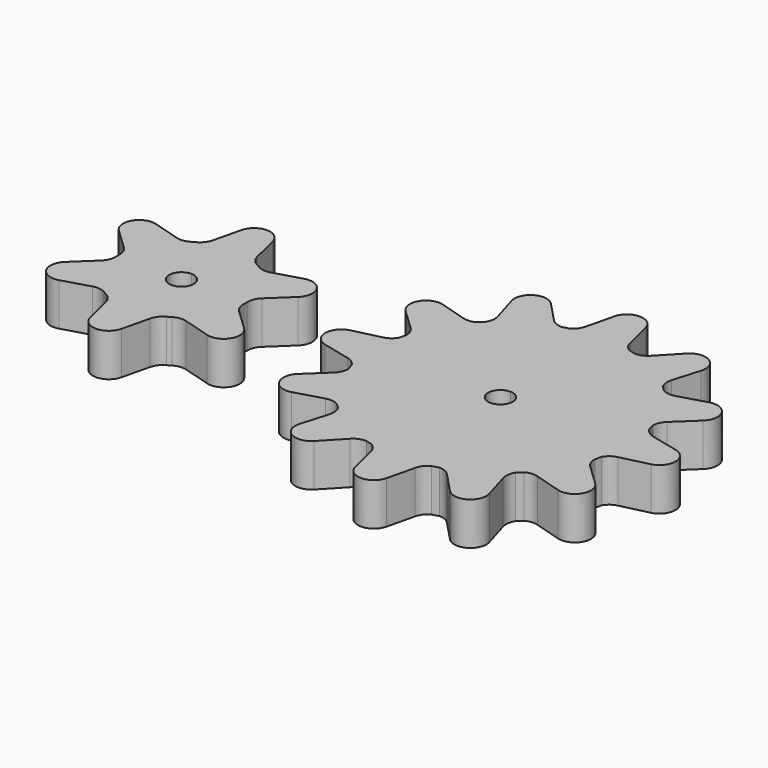
from build123d import *

# Parameters (mm, degrees)
F1_DEPTH = 4
F3_DEPTH = 4


with BuildPart() as f1:
    # F0 (on Top) → F1 (new body)
    with BuildSketch(Plane.XY):
        with BuildLine():
            ThreePointArc((-2.079262, 6.263165), (-2.350601, 5.696396), (-2.830292, 5.290505))
            ThreePointArc((-2.830292, 5.290505), (-3, 5.196152), (-3.166566, 5.096358))
            ThreePointArc((-3.166566, 5.096358), (-3.757923, 4.883878), (-4.384429, 4.932276))
            Line((-4.384429, 4.932276), (-6.934995, 5.688171))
            ThreePointArc((-6.934995, 5.688171), (-8.660254, 5), (-8.393598, 3.161796))
            Line((-8.393598, 3.161796), (-6.463691, 1.330888))
            ThreePointArc((-6.463691, 1.330888), (-6.108524, 0.812518), (-5.996858, 0.194148))
            ThreePointArc((-5.996858, 0.194148), (-6, 0), (-5.996858, -0.194148))
            ThreePointArc((-5.996858, -0.194148), (-6.108524, -0.812518), (-6.463691, -1.330888))
            Line((-6.463691, -1.330888), (-8.393598, -3.161796))
            ThreePointArc((-8.393598, -3.161796), (-8.660254, -5), (-6.934995, -5.688171))
            Line((-6.934995, -5.688171), (-4.384429, -4.932276))
            ThreePointArc((-4.384429, -4.932276), (-3.757923, -4.883878), (-3.166566, -5.096358))
            ThreePointArc((-3.166566, -5.096358), (-3, -5.196152), (-2.830292, -5.290505))
            ThreePointArc((-2.830292, -5.290505), (-2.350601, -5.696396), (-2.079262, -6.263165))
            Line((-2.079262, -6.263165), (-1.458603, -8.849967))
            ThreePointArc((-1.458603, -8.849967), (0, -10), (1.458603, -8.849967))
            Line((1.458603, -8.849967), (2.079262, -6.263165))
            ThreePointArc((2.079262, -6.263165), (2.350601, -5.696396), (2.830292, -5.290505))
            ThreePointArc((2.830292, -5.290505), (3, -5.196152), (3.166566, -5.096358))
            ThreePointArc((3.166566, -5.096358), (3.757923, -4.883878), (4.384429, -4.932276))
            Line((4.384429, -4.932276), (6.934995, -5.688171))
            ThreePointArc((6.934995, -5.688171), (8.660254, -5), (8.393598, -3.161796))
            Line((8.393598, -3.161796), (6.463691, -1.330888))
            ThreePointArc((6.463691, -1.330888), (6.108524, -0.812518), (5.996858, -0.194148))
            ThreePointArc((5.996858, -0.194148), (6, 0), (5.996858, 0.194148))
            ThreePointArc((5.996858, 0.194148), (6.108524, 0.812518), (6.463691, 1.330888))
            Line((6.463691, 1.330888), (8.393598, 3.161796))
            ThreePointArc((8.393598, 3.161796), (8.660254, 5), (6.934995, 5.688171))
            Line((6.934995, 5.688171), (4.384429, 4.932276))
            ThreePointArc((4.384429, 4.932276), (3.757923, 4.883878), (3.166566, 5.096358))
            ThreePointArc((3.166566, 5.096358), (3, 5.196152), (2.830292, 5.290505))
            ThreePointArc((2.830292, 5.290505), (2.350601, 5.696396), (2.079262, 6.263165))
            Line((2.079262, 6.263165), (1.458603, 8.849967))
            ThreePointArc((1.458603, 8.849967), (0, 10), (-1.458603, 8.849967))
            Line((-1.458603, 8.849967), (-2.079262, 6.263165))
        make_face()
        with BuildLine():
            ThreePointArc((0, 1.15), (0.813173, 0.813173), (1.15, 0))
            ThreePointArc((1.15, 0), (-0.813173, -0.813173), (0, 1.15))
        make_face(mode=Mode.SUBTRACT)
    extrude(amount=F1_DEPTH)


with BuildPart() as f3:
    # F2 (on Top) → F3 (new body)
    with BuildSketch(Plane.XY):
        with BuildLine():
            ThreePointArc((27.751199, 12.624026), (27.47986, 12.057258), (27.000169, 11.651367))
            ThreePointArc((27.000169, 11.651367), (26.69476, 11.571823), (26.391548, 11.484276))
            ThreePointArc((26.391548, 11.484276), (25.810879, 11.610222), (25.324666, 11.951743))
            Line((25.324666, 11.951743), (23.493758, 13.88165))
            ThreePointArc((23.493758, 13.88165), (21.655554, 14.148306), (20.967383, 12.423046))
            Line((20.967383, 12.423046), (21.723278, 9.87248))
            ThreePointArc((21.723278, 9.87248), (21.771676, 9.245975), (21.559197, 8.654618))
            ThreePointArc((21.559197, 8.654618), (21.334476, 8.433026), (21.115661, 8.205602))
            ThreePointArc((21.115661, 8.205602), (20.549814, 8.02434), (19.957981, 8.076999))
            Line((19.957981, 8.076999), (17.407415, 8.832894))
            ThreePointArc((17.407415, 8.832894), (15.682155, 8.144723), (15.948811, 6.306519))
            Line((15.948811, 6.306519), (17.878718, 4.475611))
            ThreePointArc((17.878718, 4.475611), (18.233885, 3.957241), (18.345551, 3.33887))
            ThreePointArc((18.345551, 3.33887), (18.261733, 3.034607), (18.185946, 2.728244))
            ThreePointArc((18.185946, 2.728244), (17.786539, 2.288343), (17.247667, 2.03803))
            Line((17.247667, 2.03803), (14.660864, 1.417371))
            ThreePointArc((14.660864, 1.417371), (13.510831, -0.041232), (14.660864, -1.499835))
            Line((14.660864, -1.499835), (17.247667, -2.120494))
            ThreePointArc((17.247667, -2.120494), (17.814435, -2.391833), (18.220326, -2.871524))
            ThreePointArc((18.220326, -2.871524), (18.29987, -3.176933), (18.387417, -3.480145))
            ThreePointArc((18.387417, -3.480145), (18.261471, -4.060814), (17.91995, -4.547027))
            Line((17.91995, -4.547027), (15.990043, -6.377935))
            ThreePointArc((15.990043, -6.377935), (15.723387, -8.216139), (17.448646, -8.90431))
            Line((17.448646, -8.90431), (19.999213, -8.148415))
            ThreePointArc((19.999213, -8.148415), (20.625718, -8.100017), (21.217075, -8.312496))
            ThreePointArc((21.217075, -8.312496), (21.438666, -8.537216), (21.666091, -8.756032))
            ThreePointArc((21.666091, -8.756032), (21.847352, -9.321879), (21.794694, -9.913712))
            Line((21.794694, -9.913712), (21.038799, -12.464278))
            ThreePointArc((21.038799, -12.464278), (21.72697, -14.189538), (23.565174, -13.922881))
            Line((23.565174, -13.922881), (25.396082, -11.992974))
            ThreePointArc((25.396082, -11.992974), (25.914452, -11.637808), (26.532822, -11.526142))
            ThreePointArc((26.532822, -11.526142), (26.837086, -11.60996), (27.143449, -11.685747))
            ThreePointArc((27.143449, -11.685747), (27.58335, -12.085154), (27.833663, -12.624026))
            Line((27.833663, -12.624026), (28.454322, -15.210829))
            ThreePointArc((28.454322, -15.210829), (29.912925, -16.360862), (31.371528, -15.210829))
            Line((31.371528, -15.210829), (31.992187, -12.624026))
            ThreePointArc((31.992187, -12.624026), (32.263526, -12.057258), (32.743217, -11.651367))
            ThreePointArc((32.743217, -11.651367), (33.048626, -11.571823), (33.351838, -11.484276))
            ThreePointArc((33.351838, -11.484276), (33.932507, -11.610222), (34.41872, -11.951743))
            Line((34.41872, -11.951743), (36.249628, -13.88165))
            ThreePointArc((36.249628, -13.88165), (38.087832, -14.148306), (38.776002, -12.423046))
            Line((38.776002, -12.423046), (38.020108, -9.87248))
            ThreePointArc((38.020108, -9.87248), (37.97171, -9.245975), (38.184189, -8.654618))
            ThreePointArc((38.184189, -8.654618), (38.408909, -8.433026), (38.627725, -8.205602))
            ThreePointArc((38.627725, -8.205602), (39.193572, -8.02434), (39.785405, -8.076999))
            Line((39.785405, -8.076999), (42.335971, -8.832894))
            ThreePointArc((42.335971, -8.832894), (44.061231, -8.144723), (43.794574, -6.306519))
            Line((43.794574, -6.306519), (41.864667, -4.475611))
            ThreePointArc((41.864667, -4.475611), (41.509501, -3.957241), (41.397835, -3.33887))
            ThreePointArc((41.397835, -3.33887), (41.481652, -3.034607), (41.55744, -2.728244))
            ThreePointArc((41.55744, -2.728244), (41.956847, -2.288343), (42.495719, -2.03803))
            Line((42.495719, -2.03803), (45.082521, -1.417371))
            ThreePointArc((45.082521, -1.417371), (46.232554, 0.041232), (45.082521, 1.499835))
            Line((45.082521, 1.499835), (42.495719, 2.120494))
            ThreePointArc((42.495719, 2.120494), (41.928951, 2.391833), (41.52306, 2.871524))
            ThreePointArc((41.52306, 2.871524), (41.443516, 3.176933), (41.355969, 3.480145))
            ThreePointArc((41.355969, 3.480145), (41.481915, 4.060814), (41.823435, 4.547027))
            Line((41.823435, 4.547027), (43.753342, 6.377935))
            ThreePointArc((43.753342, 6.377935), (44.019999, 8.216139), (42.294739, 8.90431))
            Line((42.294739, 8.90431), (39.744173, 8.148415))
            ThreePointArc((39.744173, 8.148415), (39.117668, 8.100017), (38.52631, 8.312496))
            ThreePointArc((38.52631, 8.312496), (38.304719, 8.537216), (38.077295, 8.756032))
            ThreePointArc((38.077295, 8.756032), (37.896033, 9.321879), (37.948692, 9.913712))
            Line((37.948692, 9.913712), (38.704587, 12.464278))
            ThreePointArc((38.704587, 12.464278), (38.016416, 14.189538), (36.178212, 13.922881))
            Line((36.178212, 13.922881), (34.347304, 11.992974))
            ThreePointArc((34.347304, 11.992974), (33.828934, 11.637808), (33.210563, 11.526142))
            ThreePointArc((33.210563, 11.526142), (32.9063, 11.60996), (32.599937, 11.685747))
            ThreePointArc((32.599937, 11.685747), (32.160036, 12.085154), (31.909723, 12.624026))
            Line((31.909723, 12.624026), (31.289064, 15.210829))
            ThreePointArc((31.289064, 15.210829), (29.830461, 16.360862), (28.371858, 15.210829))
            Line((28.371858, 15.210829), (27.751199, 12.624026))
        make_face()
        with BuildLine():
            ThreePointArc((29.871693, 1.15), (30.684866, 0.813173), (31.021693, 0))
            ThreePointArc((31.021693, 0), (29.05852, -0.813173), (29.871693, 1.15))
        make_face(mode=Mode.SUBTRACT)
    extrude(amount=F3_DEPTH)


solid = Compound([f1.part, f3.part])
